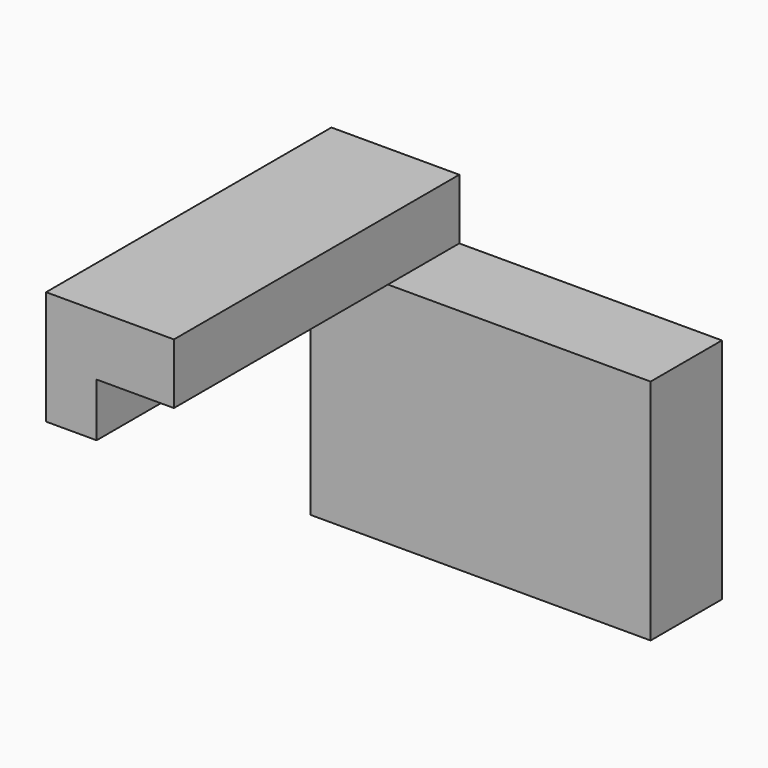
from build123d import *

# Parameters (mm, degrees)
F0_W     = 21.674182
F0_H     = 15.005204
F1_DEPTH = 25
F2_DEPTH = 100


with BuildPart() as f1:
    # F0 (on Front) → F1 (new body)
    with BuildSketch(Plane.XZ):
        Polygon((58.353573, 27.231669), (-15.283082, 27.231669), (-15.283082, 12.226465), (-36.957264, 12.226465), (-36.957264, -36.679387), (58.353573, -36.679387), align=None)
        with Locations((-26.120173, 19.729067)):
            Rectangle(F0_W, F0_H)
    extrude(amount=F1_DEPTH)

    # F0 (on Front) → F2 (join)
    with BuildSketch(Plane.XZ):
        Polygon((-36.957264, 12.226465), (-36.957264, 27.231669), (-15.283082, 27.231669), (-15.283082, 44.181995), (-51.128846, 44.181995), (-51.128846, 12.226465), align=None)
    extrude(amount=F2_DEPTH)


solid = f1.part
